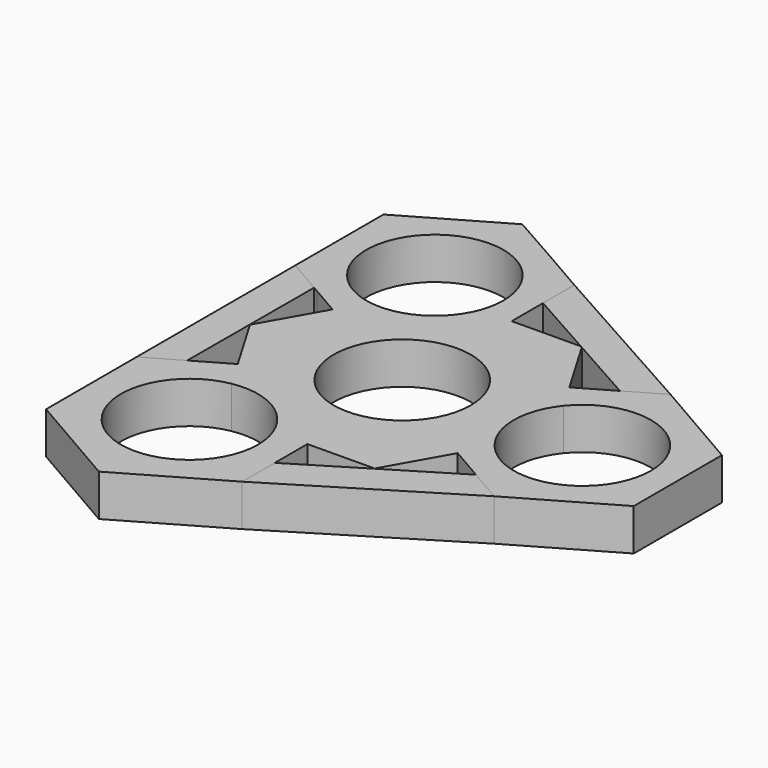
from build123d import *

# Parameters (mm, degrees)
F0_R     = 11.5
F1_DEPTH = 7
F3_DEPTH = 7


with BuildPart() as f1:
    # F0 (on Top) → F1 (new body)
    with BuildSketch(Plane.XY):
        with BuildLine():
            ThreePointArc((-4.413383, 21.916369), (-9.38472, 15.942931), (-17.02022, 14.495422))
            Line((-17.02022, 14.495422), (-19.613493, 9.915007))
            Line((-19.613493, 9.915007), (-25.347999, -0.213671))
            Line((-25.347999, -0.213671), (-19.631307, -9.925292))
            Line((-19.631307, -9.925292), (-16.77344, -14.780287))
            ThreePointArc((-16.77344, -14.780287), (-9.114623, -16.098871), (-4.043294, -21.987654))
            Line((-4.043294, -21.987654), (1.658094, -21.939594))
            Line((1.658094, -21.939594), (12.859045, -21.845176))
            Line((12.859045, -21.845176), (18.627288, -11.656909))
            Line((18.627288, -11.656909), (21.186824, -7.136082))
            ThreePointArc((21.186824, -7.136082), (18.499343, 0.15594), (21.063514, 7.492232))
            Line((21.063514, 7.492232), (18.393683, 12.02779))
            Line((18.393683, 12.02779), (12.488955, 22.058847))
            Line((12.488955, 22.058847), (0.782104, 21.960164))
            Line((0.782104, 21.960164), (-4.413383, 21.916369))
        make_face()
        Circle(F0_R, mode=Mode.SUBTRACT)
        with BuildLine():
            ThreePointArc((-17.02022, 14.495422), (-22.686055, 34.598977), (-3.718465, 25.853401))
            ThreePointArc((-3.718465, 25.853401), (-3.893527, 23.854455), (-4.413383, 21.916369))
            Line((-4.413383, 21.916369), (0.782104, 21.960164))
            Line((0.782104, 21.960164), (0.782104, 28.686861))
            Line((0.782104, 28.686861), (0.782104, 35.091333))
            Line((0.782104, 35.091333), (-7.21818, 39.7103))
            Line((-7.21818, 39.7103), (-15.296717, 44.284087))
            Line((-15.296717, 44.284087), (-31.219033, 35.091333))
            Line((-31.219033, 35.091333), (-31.219033, 16.615468))
            Line((-31.219033, 16.615468), (-24.473769, 12.721089))
            Line((-24.473769, 12.721089), (-19.613493, 9.915007))
            Line((-19.613493, 9.915007), (-17.02022, 14.495422))
        make_face()
        with BuildLine():
            Line((24.242317, 15.404501), (18.393683, 12.02779))
            Line((18.393683, 12.02779), (21.063514, 7.492232))
            ThreePointArc((21.063514, 7.492232), (33.83903, 11.092787), (41.498934, 0.252876))
            ThreePointArc((41.498934, 0.252876), (33.930265, -10.55428), (21.186824, -7.136082))
            Line((21.186824, -7.136082), (18.627288, -11.656909))
            Line((18.627288, -11.656909), (24.215227, -14.883107))
            Line((24.215227, -14.883107), (29.998934, -18.222332))
            Line((29.998934, -18.222332), (45.998934, -8.984728))
            Line((45.998934, -8.984728), (45.998934, 9.490481))
            Line((45.998934, 9.490481), (29.998934, 18.728085))
            Line((29.998934, 18.728085), (24.242317, 15.404501))
        make_face()
        with BuildLine():
            Line((-16.77344, -14.780287), (-19.631307, -9.925292))
            Line((-19.631307, -9.925292), (-25.347999, -13.225826))
            Line((-25.347999, -13.225826), (-31.219033, -16.615468))
            Line((-31.219033, -16.615468), (-31.219033, -35.597086))
            Line((-31.219033, -35.597086), (-14.78047, -45.087895))
            Line((-14.78047, -45.087895), (1.658094, -35.597086))
            Line((1.658094, -35.597086), (1.658094, -28.712078))
            Line((1.658094, -28.712078), (1.658094, -21.939594))
            Line((1.658094, -21.939594), (-4.043294, -21.987654))
            ThreePointArc((-4.043294, -21.987654), (-3.472784, -24.011942), (-3.28047, -26.106277))
            ThreePointArc((-3.28047, -26.106277), (-22.174076, -34.914488), (-16.77344, -14.780287))
        make_face()
    extrude(amount=-F1_DEPTH)


with BuildPart() as f3:
    # F2 (on face) → F3 (new body)
    with BuildSketch(Plane.XY):
        Polygon((-31.219033, 16.615468), (-31.219033, -16.615468), (-25.42517, -13.27038), (-25.347999, 13.225826), align=None)
        Polygon((24.196308, 15.377937), (29.998934, 18.728085), (0.782104, 35.091333), (0.782104, 28.525749), (12.301463, 22.057267), (12.488955, 22.058847), (12.582918, 21.899221), align=None)
        Polygon((1.658094, -28.76834), (1.658094, -35.597086), (29.998934, -18.222332), (24.313111, -14.939621), align=None)
    extrude(amount=-F3_DEPTH)


solid = Compound([f1.part, f3.part])
